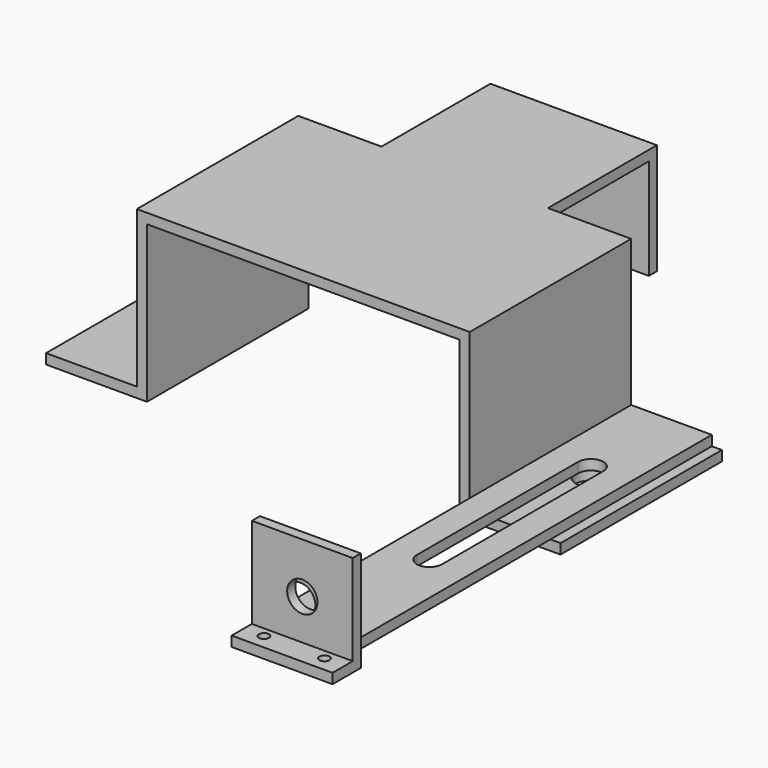
from build123d import *

# Parameters (mm, degrees)
PAD_DEPTH       = 40
SKETCH001_R     = 3
HOLE_DEPTH      = 23.197418
HOLE_TIPS_R     = 3
SKETCH002_W     = 33
SKETCH002_H     = 27
PAD001_DEPTH    = 2
SKETCH003_W     = 33
SKETCH003_H     = 2
PAD002_DEPTH    = 20
SKETCH004_W     = 16
SKETCH004_H     = 90
PAD003_DEPTH    = 2
POCKET_DEPTH    = 2
SKETCH006_W     = 16
SKETCH006_H     = 16
PAD004_DEPTH    = 2
SKETCH007_R     = 3
HOLE001_DEPTH   = 23.197418
HOLE001_TIPS_R  = 3
SKETCH008_W     = 20
SKETCH008_H     = 20
PAD005_DEPTH    = 2
SKETCH009_R     = 3
HOLE002_DEPTH   = 25
SKETCH010_W     = 20
SKETCH010_H     = 2
PAD006_DEPTH    = 5
SKETCH011_R     = 1
POCKET001_DEPTH = 5


with BuildPart() as body:
    # Sketch → Pad (new body)
    with BuildSketch(Plane.XZ):
        Polygon((-31, 0), (-31, 31), (31, 31), (31, 0), (51, 0), (51, 2), (33, 2), (33, 33), (-33, 33), (-33, 2), (-51, 2), (-51, 0), align=None)
    extrude(amount=PAD_DEPTH)

    # Sketch001 (on Face12 of Pad) → Hole (cut)
    with BuildSketch(Plane(origin=(0, 0, 0), x_dir=(1, 0, 0), z_dir=(0, 0, -1))):
        with Locations((41, 20)):
            Circle(SKETCH001_R)
        with Locations((-41, 20)):
            Circle(SKETCH001_R)
    extrude(amount=-HOLE_DEPTH, mode=Mode.SUBTRACT)

    # Hole tips → Hole tip 1 section 0
    with BuildSketch(Plane(origin=(0, 0, 23.197418), x_dir=(1, 0, 0), z_dir=(0, 0, -1)), mode=Mode.PRIVATE) as hole_tip_1_s0:
        with Locations((41, 20)):
            Circle(HOLE_TIPS_R)
    loft([hole_tip_1_s0.sketch, Vertex(41, -20, 25)], mode=Mode.SUBTRACT)

    # Hole tips → Hole tip 2 section 0
    with BuildSketch(Plane(origin=(0, 0, 23.197418), x_dir=(1, 0, 0), z_dir=(0, 0, -1)), mode=Mode.PRIVATE) as hole_tip_2_s0:
        with Locations((-41, 20)):
            Circle(HOLE_TIPS_R)
    loft([hole_tip_2_s0.sketch, Vertex(-41, -20, 25)], mode=Mode.SUBTRACT)

    # Sketch002 (on Face13 of Hole) → Pad001 (join)
    with BuildSketch(Plane(origin=(0, 0, 33), x_dir=(-1, 0, 0), z_dir=(0, 0, 1))):
        with Locations((0, -13.5)):
            Rectangle(SKETCH002_W, SKETCH002_H)
    extrude(amount=-PAD001_DEPTH)

    # Sketch003 (on Face9 of Pad001) → Pad002 (join)
    with BuildSketch(Plane(origin=(0, 0, 31), x_dir=(1, 0, 0), z_dir=(0, 0, -1))):
        with Locations((0, -26)):
            Rectangle(SKETCH003_W, SKETCH003_H)
    extrude(amount=PAD002_DEPTH)


with BuildPart() as cam_bar:
    # Sketch004 → Pad003 (new body)
    with BuildSketch(Plane.XY):
        with Locations((8, -45)):
            Rectangle(SKETCH004_W, SKETCH004_H)
    extrude(amount=PAD003_DEPTH)

    # Sketch005 (on Face5 of Pad003) → Pocket (cut)
    with BuildSketch(Plane(origin=(0, 0, 0), x_dir=(1, 0, 0), z_dir=(0, 0, -1))):
        with BuildLine():
            Line((10.5, 60), (10.5, 20))
            ThreePointArc((5.5, 20), (8, 17.5), (10.5, 20))
            Line((5.5, 20), (5.5, 60))
            ThreePointArc((10.5, 60), (8, 62.5), (5.5, 60))
        make_face()
    extrude(amount=-POCKET_DEPTH, mode=Mode.SUBTRACT)

    # Sketch006 (on Face6 of Pocket) → Pad004 (join)
    with BuildSketch(Plane.XZ.offset(90)):
        with Locations((8, 8)):
            Rectangle(SKETCH006_W, SKETCH006_H)
    extrude(amount=PAD004_DEPTH)

    # Sketch007 (on Face15 of Pad004) → Hole001 (cut)
    with BuildSketch(Plane.XZ.offset(92)):
        with Locations((8, 8)):
            Circle(SKETCH007_R)
    extrude(amount=-HOLE001_DEPTH, mode=Mode.SUBTRACT)

    # Hole001 tips → Hole001 tip 1 section 0
    with BuildSketch(Plane.XZ.offset(68.802582), mode=Mode.PRIVATE) as hole001_tip_1_s0:
        with Locations((8, 8)):
            Circle(HOLE001_TIPS_R)
    loft([hole001_tip_1_s0.sketch, Vertex(8, -67, 8)], mode=Mode.SUBTRACT)


with BuildPart() as cam_bar_1:
    # Body001 placement: moved
    add(cam_bar.part.moved(Location((33, 0, 2))))


with BuildPart() as obj1:
    # Sketch008 → Pad005 (new body)
    with BuildSketch(Plane.XZ):
        with Locations((10, 10)):
            Rectangle(SKETCH008_W, SKETCH008_H)
    extrude(amount=PAD005_DEPTH)

    # Sketch009 (on Face6 of Pad005) → Hole002 (cut)
    with BuildSketch(Plane.XZ.offset(2)):
        with Locations((10, 10)):
            Circle(SKETCH009_R)
    extrude(amount=-HOLE002_DEPTH, mode=Mode.SUBTRACT)

    # Sketch010 (on Face5 of Hole002) → Pad006 (join)
    with BuildSketch(Plane.XZ.offset(2)):
        with Locations((10, 1)):
            Rectangle(SKETCH010_W, SKETCH010_H)
    extrude(amount=PAD006_DEPTH)

    # Sketch011 (on Face10 of Pad006) → Pocket001 (cut)
    with BuildSketch(Plane(origin=(0, 0, 2), x_dir=(-1, 0, 0), z_dir=(0, 0, 1))):
        with Locations((-16, 4)):
            Circle(SKETCH011_R)
        with Locations((-4, 4)):
            Circle(SKETCH011_R)
    extrude(amount=-POCKET001_DEPTH, mode=Mode.SUBTRACT)


with BuildPart() as obj1_1:
    # Body002 placement: moved
    add(obj1.part.moved(Location((33, -92, 2))))


solid = Compound([body.part, cam_bar_1.part, obj1_1.part])
